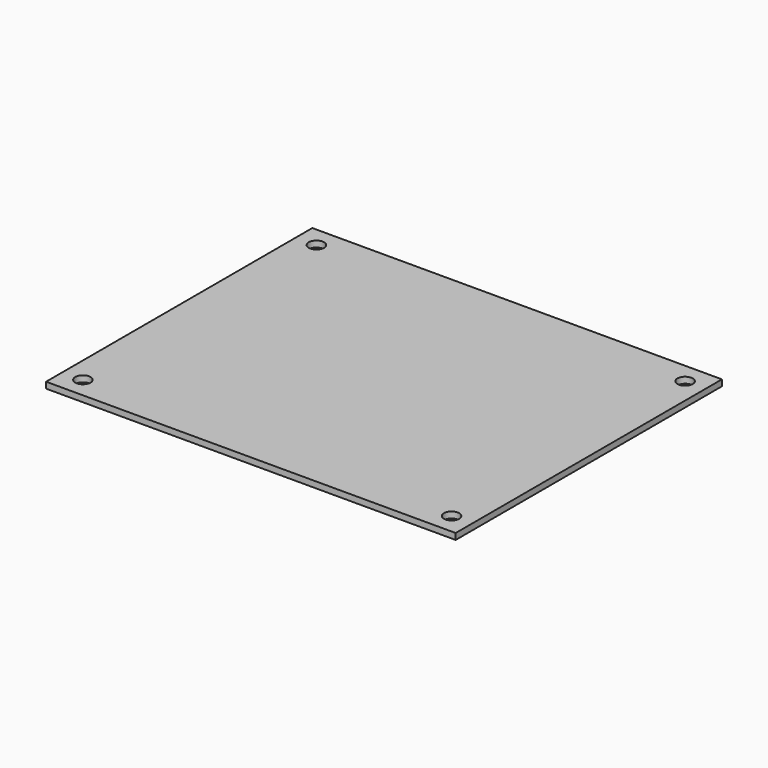
from build123d import *

# Parameters (mm, degrees)
F0_W     = 101.6
F0_H     = 82.55
F1_DEPTH = 1.524
F3_D     = 3.7973


with BuildPart() as f1:
    # F0 (on Top) → F1 (new body)
    with BuildSketch(Plane.XY):
        with Locations((50.8, 41.275)):
            Rectangle(F0_W, F0_H)
    extrude(amount=F1_DEPTH)

    # F3 (through all)
    with Locations(Plane.XY.offset(1.524)):
        with Locations((5.08, 77.47), (96.52, 77.47), (5.08, 5.08), (96.52, 5.08)):
            Hole(F3_D / 2)


solid = f1.part
